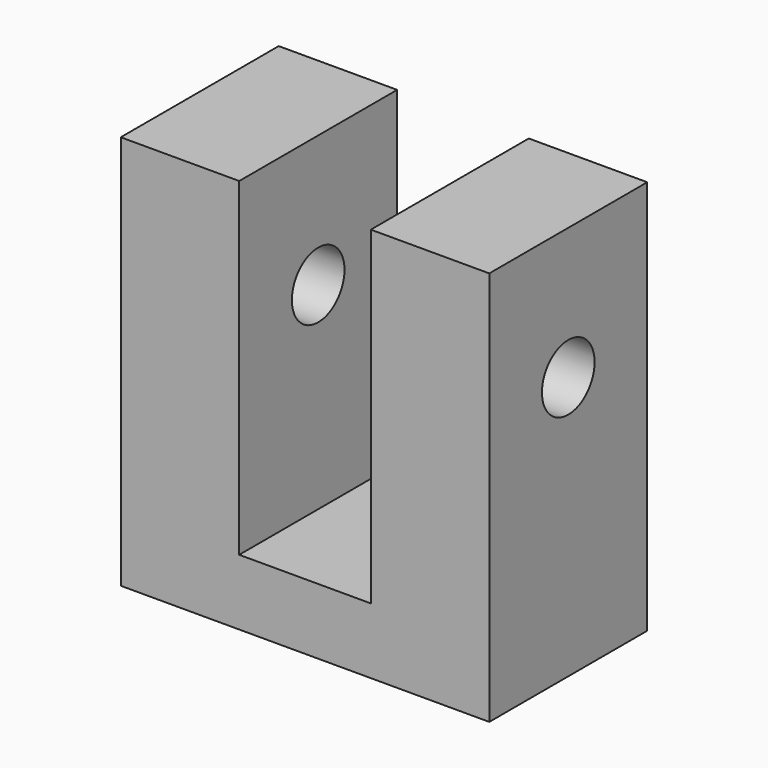
from build123d import *

# Parameters (mm, degrees)
F1_DEPTH = 19.05
F2_R     = 3.175
F3_DEPTH = 35.561
F4_R     = 3.175
F5_DEPTH = 12.7


with BuildPart() as f1:
    # F0 (on Front) → F1 (new body)
    with BuildSketch(Plane.XZ):
        Polygon((0, 38.1), (0, 0), (35.56, 0), (35.56, 38.1), (24.13, 38.1), (24.13, 6.35), (11.43, 6.35), (11.43, 38.1), align=None)
    extrude(amount=F1_DEPTH)

    # F2 (on face) → F3 (cut, through all)
    with BuildSketch(Plane.YZ.offset(35.56)):
        with Locations((-9.525, 25.4)):
            Circle(F2_R)
    extrude(amount=-F3_DEPTH, mode=Mode.SUBTRACT)

    # F4 (on face) → F5 (cut)
    with BuildSketch(Plane(origin=(0, 0, 0), x_dir=(1, 0, 0), z_dir=(0, 0, -1))):
        with Locations((4.7752, 12.7)):
            Circle(F4_R)
        with Locations((30.7848, 12.7)):
            Circle(F4_R)
    extrude(amount=-F5_DEPTH, mode=Mode.SUBTRACT)


solid = f1.part
